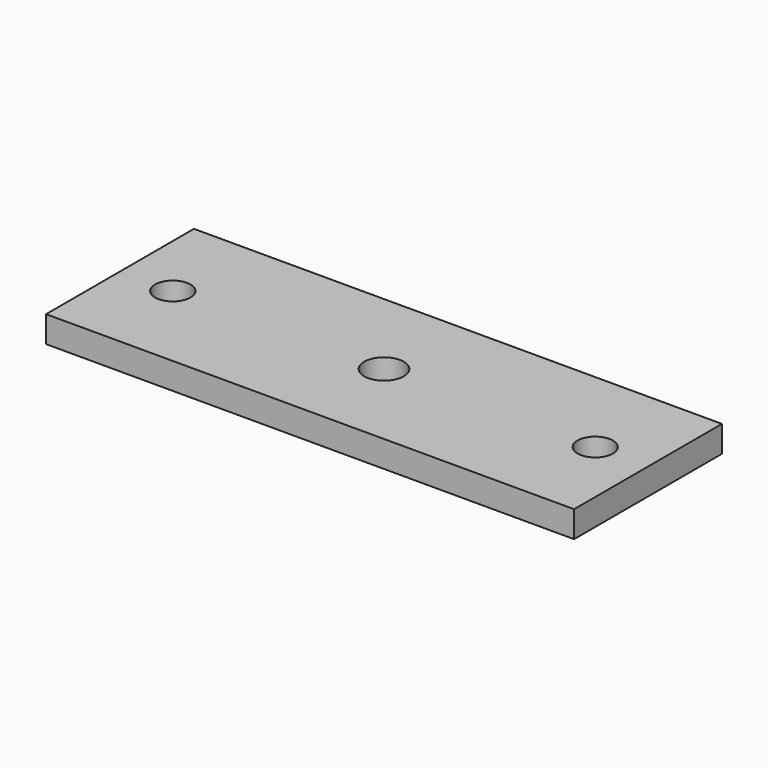
from build123d import *

# Parameters (mm, degrees)
F0_W     = 127
F0_H     = 44.45
F1_DEPTH = 6.35
F3_DEPTH = 6.35


with BuildPart() as f1:
    # F0 (on Top) → F1 (new body)
    with BuildSketch(Plane.XY):
        Rectangle(F0_W, F0_H)
    extrude(amount=F1_DEPTH)

    # F2 (on face) → F3 (cut, through all)
    with BuildSketch(Plane.XY.offset(6.35)):
        with BuildLine():
            ThreePointArc((-46.55, 0), (-50.8, 4.25), (-55.05, 0))
            Line((-55.05, 0), (-46.55, 0))
        make_face()
        with BuildLine():
            ThreePointArc((55.05, 0), (50.8, 4.25), (46.55, 0))
            Line((46.55, 0), (55.05, 0))
        make_face()
        with BuildLine():
            Line((55.05, 0), (46.55, 0))
            ThreePointArc((46.55, 0), (50.8, -4.25), (55.05, 0))
        make_face()
        with BuildLine():
            ThreePointArc((4.7625, 0), (0, 4.7625), (-4.7625, 0))
            Line((-4.7625, 0), (4.7625, 0))
        make_face()
        with BuildLine():
            Line((4.7625, 0), (-4.7625, 0))
            ThreePointArc((-4.7625, 0), (0, -4.7625), (4.7625, 0))
        make_face()
        with BuildLine():
            Line((-46.55, 0), (-55.05, 0))
            ThreePointArc((-55.05, 0), (-50.8, -4.25), (-46.55, 0))
        make_face()
    extrude(amount=-F3_DEPTH, mode=Mode.SUBTRACT)


solid = f1.part
